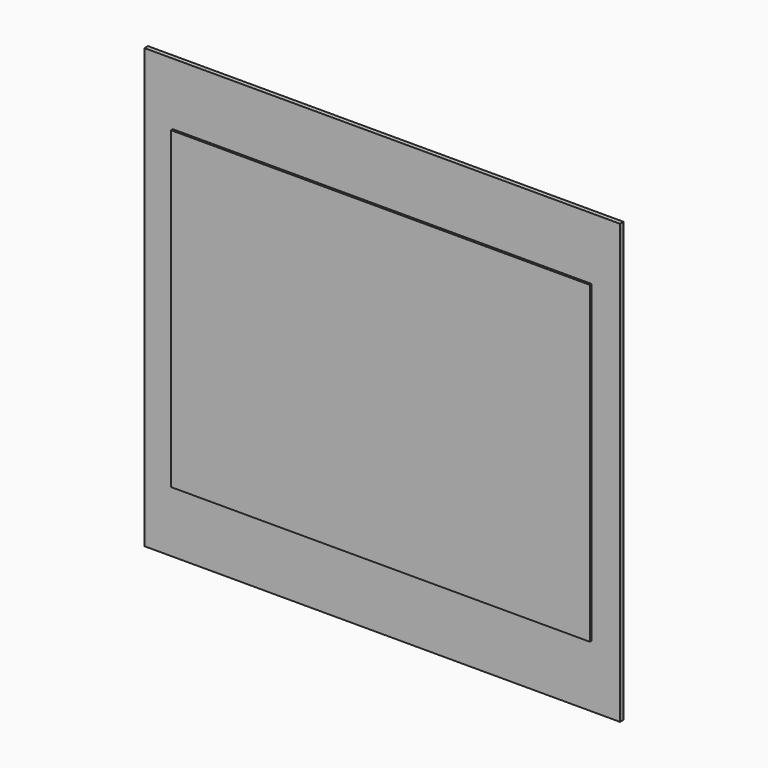
from build123d import *

# Parameters (mm, degrees)
F0_W     = 1384.3
F0_H     = 1276.35
F1_DEPTH = 12.7
F2_W     = 1219.2
F2_H     = 914.4
F3_DEPTH = 6.35


with BuildPart() as f1:
    # F0 (on Front) → F1 (new body)
    with BuildSketch(Plane.XZ):
        with Locations((-8.486808, 10.601521)):
            Rectangle(F0_W, F0_H)
    extrude(amount=-F1_DEPTH)


with BuildPart() as f3:
    # F2 (on face) → F3 (new body)
    with BuildSketch(Plane.XZ):
        with Locations((-8.486808, 10.601521)):
            Rectangle(F2_W, F2_H)
    extrude(amount=F3_DEPTH)


solid = Compound([f1.part, f3.part])
